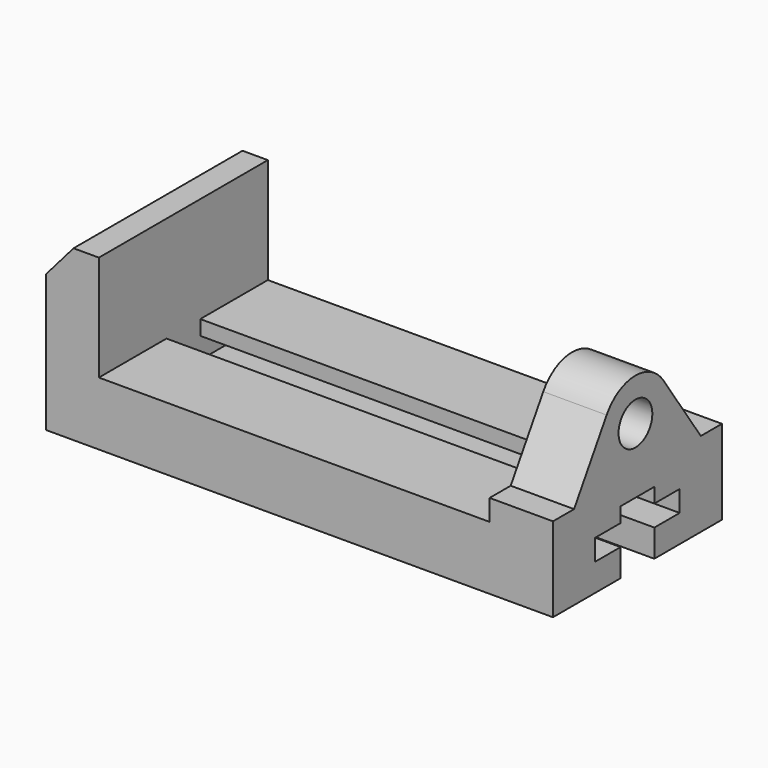
from build123d import *

# Parameters (mm, degrees)
F0_W     = 304.8
F0_H     = 38.1
F1_DEPTH = 63.5
F3_DEPTH = 127
F5_DEPTH = 38.1
F6_R     = 12.7
F7_DEPTH = 55.88
F9_DEPTH = 273.05


with BuildPart() as f1:
    # F0 (on Front) → F1 (new body, symmetric)
    with BuildSketch(Plane.XZ):
        with Locations((152.4, 19.05)):
            Rectangle(F0_W, F0_H)
    extrude(amount=F1_DEPTH, both=True)

    # F2 (on face) → F3 (join)
    with BuildSketch(Plane.XZ.offset(63.5)):
        Polygon((0, 82.55), (0, 38.1), (31.75, 38.1), (31.75, 101.6), (16.51, 101.6), align=None)
    extrude(amount=-F3_DEPTH)

    # F4 (on face) → F5 (join)
    with BuildSketch(Plane.YZ.offset(304.8)):
        with BuildLine():
            Line((-63.5, 50.8), (-63.5, 0))
            Line((-63.5, 0), (63.5, 0))
            Line((63.5, 0), (63.5, 50.8))
            Line((63.5, 50.8), (47.625, 50.8))
            Line((47.625, 50.8), (19.413296, 91.768501))
            ThreePointArc((19.413296, 91.768501), (-2.171038, 102.754075), (-23.151125, 90.654394))
            Line((-23.151125, 90.654394), (-47.625, 50.8))
            Line((-47.625, 50.8), (-63.5, 50.8))
        make_face()
    extrude(amount=-F5_DEPTH)

    # F6 (on face) → F7 (cut)
    with BuildSketch(Plane.YZ.offset(304.8)):
        with Locations((-1.506431, 77.362772)):
            Circle(F6_R)
    extrude(amount=-F7_DEPTH, mode=Mode.SUBTRACT)

    # F8 (on face) → F9 (cut)
    with BuildSketch(Plane.YZ.offset(304.8)):
        Polygon((-12.7, 0), (0, 0), (12.7, 0), (12.7, 16.51), (31.75, 16.51), (31.75, 29.21), (12.7, 29.21), (12.7, 38.1), (-12.7, 38.1), (-12.7, 29.21), (-31.75, 29.21), (-31.75, 16.51), (-12.7, 16.51), align=None)
    extrude(amount=-F9_DEPTH, mode=Mode.SUBTRACT)


solid = f1.part
